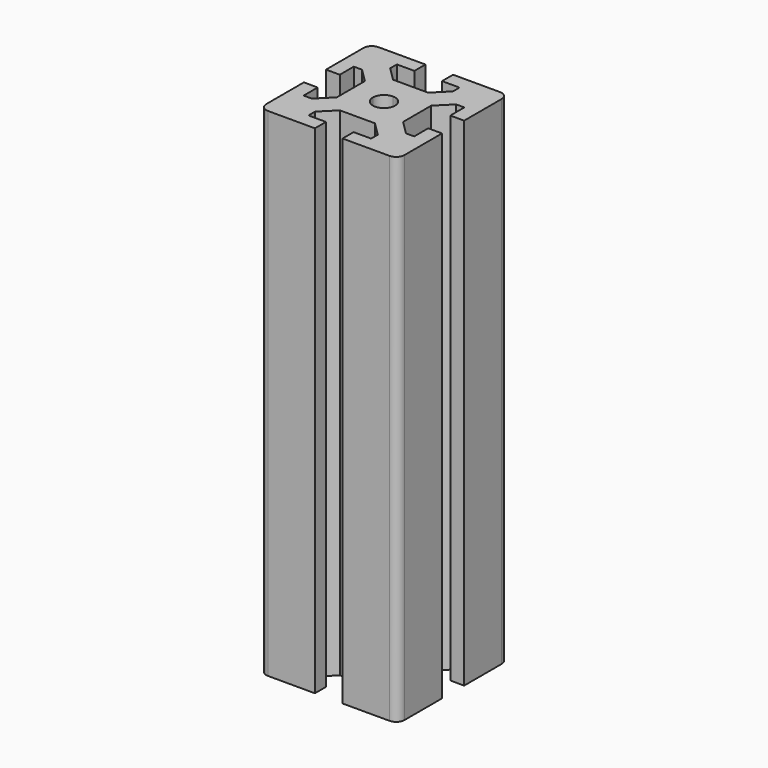
from build123d import *

# Parameters (mm, degrees)
PAD_DEPTH = 180


with BuildPart() as pad:
    # Sketch → Pad (new body)
    with BuildSketch(Plane.XY):
        with BuildLine():
            Line((-4.01, 0), (-12.01, 0))
            Line((-12.01, 0), (-12.01, -6.353146))
            Line((-12.01, -6.353146), (-17, -11.343146))
            Line((-17, -11.343146), (-20, -11.343146))
            Line((-20, -11.343146), (-20, -5))
            Line((-20, -5), (-25, -5))
            Line((-25, -5), (-25, -22))
            ThreePointArc((-25, -22), (-24.12132, -24.12132), (-22, -25))
            Line((-22, -25), (-5, -25))
            Line((-5, -25), (-5, -20))
            Line((-5, -20), (-11.343146, -20))
            Line((-11.343146, -20), (-11.343146, -17))
            Line((-11.343146, -17), (-6.353146, -12.01))
            Line((-6.353146, -12.01), (0, -12.01))
            Line((0, -12.01), (0, -4.01))
            ThreePointArc((-4.01, 0), (-2.835498, -2.835498), (0, -4.01))
        make_face()
    extrude(amount=PAD_DEPTH)


with BuildPart() as part_mirroring:
    # Part__Mirroring: instance of Pad
    add(pad.part.mirror(Plane(origin=(0, 0, 0), x_dir=(1, 0, 0), z_dir=(0, 1, 0))))


with BuildPart() as fusion:
    # Fusion base: copy of Pad
    add(pad.part)

    # Fusion: union Part__Mirroring
    add(part_mirroring.part)


with BuildPart() as obj1:
    # Part__Mirroring001: instance of Fusion
    add(fusion.part.mirror(Plane(origin=(0, 0, 0), x_dir=(0, -1, 0), z_dir=(1, 0, 0))))

    # Fusion001: union Fusion
    add(fusion.part)


solid = obj1.part
